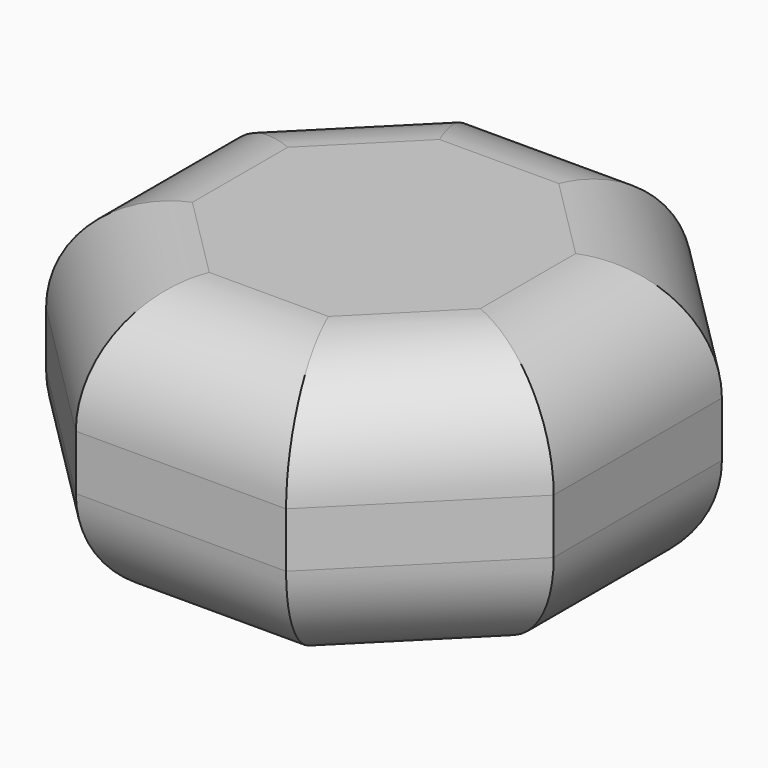
from build123d import *

# Parameters (mm, degrees)
F1_DEPTH = 254
F2_R     = 101.6


with BuildPart() as f1:
    # F0 (on Top) → F1 (new body)
    with BuildSketch(Plane.XY):
        Polygon((97.201592, 234.665401), (-97.201592, 234.665401), (-234.665401, 97.201592), (-234.665401, -97.201592), (-97.201592, -234.665401), (97.201592, -234.665401), (234.665401, -97.201592), (234.665401, 97.201592), align=None)
    extrude(amount=F1_DEPTH)

    # F2
    f2_edges = [f1.edges().sort_by_distance(p)[0] for p in [
        (0, 234.665401, 0),
        (-165.933497, 165.933497, 0),
        (-234.665401, 0, 0),
        (-165.933497, -165.933497, 0),
        (0, -234.665401, 0),
        (165.933497, -165.933497, 0),
        (234.665401, 0, 0),
        (165.933497, 165.933497, 0),
        (0, 234.665401, 254),
        (-165.933497, 165.933497, 254),
        (-234.665401, 0, 254),
        (-165.933497, -165.933497, 254),
        (0, -234.665401, 254),
        (165.933497, -165.933497, 254),
        (234.665401, 0, 254),
        (165.933497, 165.933497, 254),
    ]]
    fillet(f2_edges, radius=F2_R)


solid = f1.part
